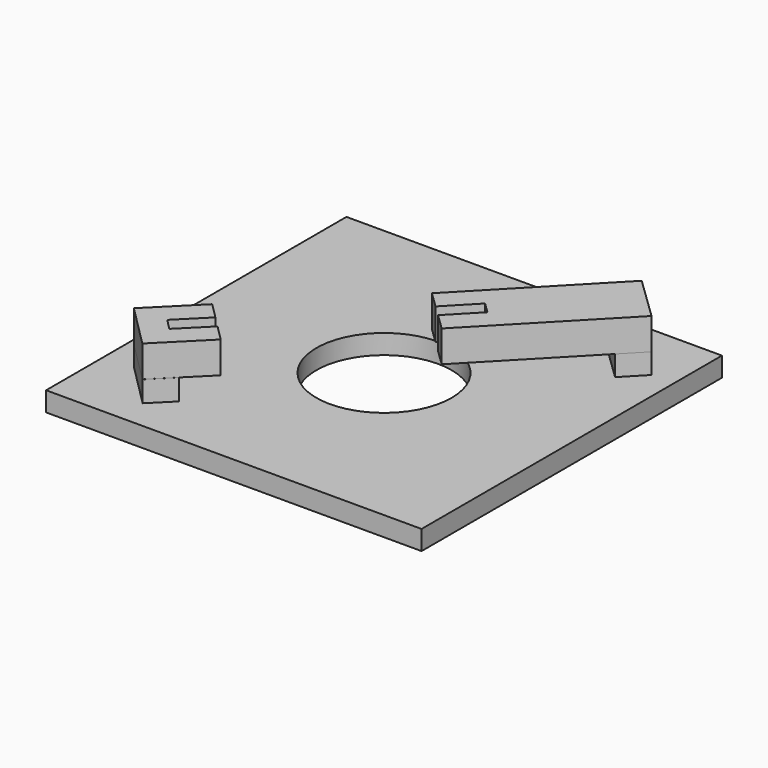
from build123d import *

# Parameters (mm, degrees)
SKETCH005_AS_DRAWN_W                      = 1.984074
SKETCH005_AS_DRAWN_H                      = 5.267074
EXTRUDE002_DEPTH                          = 4.5
EXTRUDE002_ONTO_SKETCH005_PLACEMENT_ANGLE = 136
BOX004_W                                  = 8
BOX004_H                                  = 22
BOX004_DEPTH                              = 4.2
BOX004_PLACEMENT_ANGLE                    = 136
BOX002_W                                  = 8
BOX002_H                                  = 3.8
BOX002_DEPTH                              = 2.8
BOX002_PLACEMENT_ANGLE                    = 136
SKETCH006_AS_DRAWN_W                      = 2.041283
SKETCH006_AS_DRAWN_H                      = 5.043286
EXTRUDE003_DEPTH                          = 4.5
EXTRUDE003_ONTO_SKETCH006_PLACEMENT_ANGLE = 135
BOX003_W                                  = 8
BOX003_H                                  = 8.2
BOX003_DEPTH                              = 4.2
BOX003_PLACEMENT_ANGLE                    = 135
BOX001_W                                  = 8
BOX001_H                                  = 3.8
BOX001_DEPTH                              = 2.8
BOX001_PLACEMENT_ANGLE                    = 135
CYLINDER_R                                = 9
CYLINDER_DEPTH                            = 2.6
BOX_W                                     = 50
BOX_H                                     = 50
BOX_DEPTH                                 = 2.6


with BuildPart() as extrude002:
    # Sketch005 as drawn → Extrude002 (new)
    with BuildSketch(Plane.XY):
        with Locations((4.013362, 19.444287)):
            Rectangle(SKETCH005_AS_DRAWN_W, SKETCH005_AS_DRAWN_H)
    extrude(amount=EXTRUDE002_DEPTH)


with BuildPart() as extrude002_1:
    # Extrude002 onto Sketch005 placement: moved
    add(extrude002.part.moved(Location((47.02, 42.01, 12.52))).rotate(Axis((47.02, 42.01, 12.52), (0, 0, 1)), EXTRUDE002_ONTO_SKETCH005_PLACEMENT_ANGLE))


with BuildPart() as extrude002_2:
    # Extrude002 placement: moved
    add(extrude002_1.part.moved(Location((0, 0, -4.5))))


with BuildPart() as cut003:
    # Box004 → Box004 (new body)
    with BuildSketch(Plane.XY):
        with Locations((4, 11)):
            Rectangle(BOX004_W, BOX004_H)
    extrude(amount=BOX004_DEPTH)


with BuildPart() as cut003_1:
    # Box004 placement: moved
    add(cut003.part.moved(Location((47.02, 42.01, 8.32))).rotate(Axis((47.02, 42.01, 8.32), (0, 0, 1)), BOX004_PLACEMENT_ANGLE))

    # Cut003: cut Extrude002
    add(extrude002_2.part, mode=Mode.SUBTRACT)


with BuildPart() as cut003_2:
    # Cut003 placement: moved
    add(cut003_1.part.moved(Location((0, 0, -3))))


with BuildPart() as fusion:
    # Box002 → Box002 (new body)
    with BuildSketch(Plane.XY):
        with Locations((4, 1.9)):
            Rectangle(BOX002_W, BOX002_H)
    extrude(amount=BOX002_DEPTH)


with BuildPart() as fusion_1:
    # Box002 placement: moved
    add(fusion.part.moved(Location((47, 42, 2.6))).rotate(Axis((47, 42, 2.6), (0, 0, 1)), BOX002_PLACEMENT_ANGLE))

    # Fusion: union Cut003
    add(cut003_2.part)


with BuildPart() as extrude003:
    # Sketch006 as drawn → Extrude003 (new)
    with BuildSketch(Plane.XY):
        with Locations((3.988122, 2.521643)):
            Rectangle(SKETCH006_AS_DRAWN_W, SKETCH006_AS_DRAWN_H)
    extrude(amount=EXTRUDE003_DEPTH)


with BuildPart() as extrude003_1:
    # Extrude003 onto Sketch006 placement: moved
    add(extrude003.part.moved(Location((15.55, 9.66, 12.99))).rotate(Axis((15.55, 9.66, 12.99), (0, 0, 1)), EXTRUDE003_ONTO_SKETCH006_PLACEMENT_ANGLE))


with BuildPart() as extrude003_2:
    # Extrude003 placement: moved
    add(extrude003_1.part.moved(Location((0, 0, -4.5))))


with BuildPart() as cut004:
    # Box003 → Box003 (new body)
    with BuildSketch(Plane.XY):
        with Locations((4, 4.1)):
            Rectangle(BOX003_W, BOX003_H)
    extrude(amount=BOX003_DEPTH)


with BuildPart() as cut004_1:
    # Box003 placement: moved
    add(cut004.part.moved(Location((15.55, 9.66, 8.79))).rotate(Axis((15.55, 9.66, 8.79), (0, 0, 1)), BOX003_PLACEMENT_ANGLE))

    # Cut004: cut Extrude003
    add(extrude003_2.part, mode=Mode.SUBTRACT)


with BuildPart() as cut004_2:
    # Cut004 placement: moved
    add(cut004_1.part.moved(Location((-0.08449, 0.076918, -3.36841))))


with BuildPart() as fusion001:
    # Box001 → Box001 (new body)
    with BuildSketch(Plane.XY):
        with Locations((4, 1.9)):
            Rectangle(BOX001_W, BOX001_H)
    extrude(amount=BOX001_DEPTH)


with BuildPart() as fusion001_1:
    # Box001 placement: moved
    add(fusion001.part.moved(Location((12.36, 6.67, 2.6))).rotate(Axis((12.36, 6.67, 2.6), (0, 0, 1)), BOX001_PLACEMENT_ANGLE))

    # Fusion001: union Cut004
    add(cut004_2.part)


with BuildPart() as cylinder:
    # Cylinder → Cylinder (new body)
    with BuildSketch(Plane(origin=(25, 25, 0), x_dir=(1, 0, 0), z_dir=(0, 0, 1))):
        Circle(CYLINDER_R)
    extrude(amount=CYLINDER_DEPTH)


with BuildPart() as fusion002:
    # Box → Box (new body)
    with BuildSketch(Plane.XY):
        with Locations((25, 25)):
            Rectangle(BOX_W, BOX_H)
    extrude(amount=BOX_DEPTH)

    # Cut: cut Cylinder
    add(cylinder.part, mode=Mode.SUBTRACT)

    # Fusion002: union Fusion, Fusion001
    add(fusion_1.part)
    add(fusion001_1.part)


solid = fusion002.part
